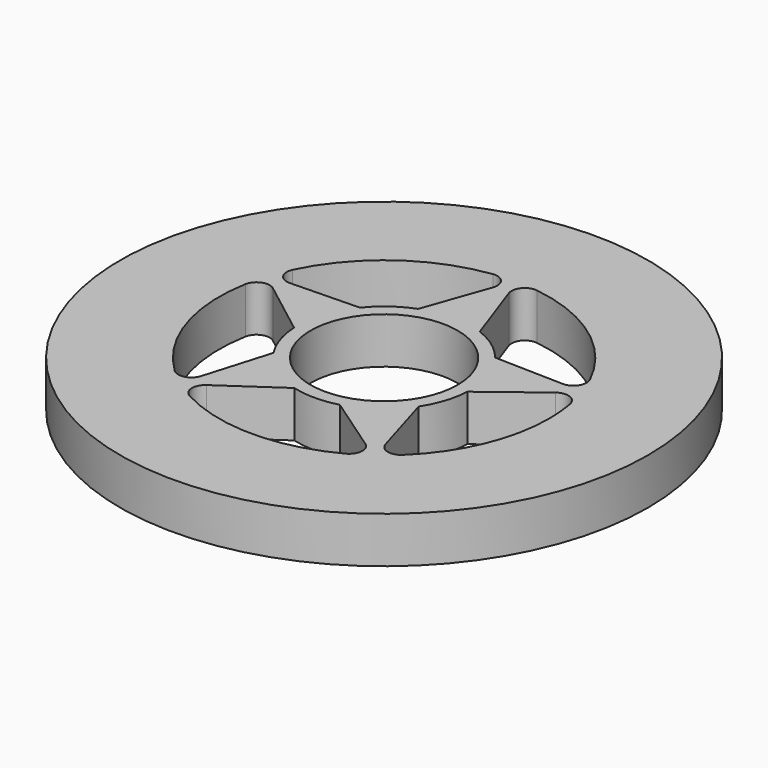
from build123d import *

# Parameters (mm, degrees)
F0_R     = 40
F0_R_2   = 35
F0_R_3   = 30
F0_R_4   = 11.15
F1_DEPTH = 7
F2_R     = 2


with BuildPart() as f1:
    # F0 (on Top) → F1 (new body)
    with BuildSketch(Plane.XY):
        Circle(F0_R)
        Circle(F0_R_2, mode=Mode.SUBTRACT)
        Circle(F0_R_2)
        Circle(F0_R_3, mode=Mode.SUBTRACT)
        Circle(F0_R_3)
        with BuildLine():
            ThreePointArc((0.1811274542, 24.9993438483), (14.6946313073, 20.2254248594), (23.7198174085, 7.8974845429))
            Line((23.7198174085, 7.8974845429), (24.2635492258, 7.883705044))
            Line((24.2635492258, 7.883705044), (23.8317603315, 7.5529596518))
            ThreePointArc((23.8317603315, 7.5529596518), (24.7062138772, 3.8213866405), (25, 0))
            ThreePointArc((25, 0), (22.3161322869, -11.2689946204), (14.8407808196, -20.1184299752))
            Line((14.8407808196, -20.1184299752), (14.9956981092, -20.6398077624))
            Line((14.9956981092, -20.6398077624), (14.5477104425, -20.3313580678))
            ThreePointArc((14.5477104425, -20.3313580678), (0, -25), (-14.5477104425, -20.3313580678))
            Line((-14.5477104425, -20.3313580678), (-14.9956981092, -20.6398077624))
            Line((-14.9956981092, -20.6398077624), (-14.8407808196, -20.1184299752))
            ThreePointArc((-14.8407808196, -20.1184299752), (-23.7764129074, -7.7254248594), (-23.8317603315, 7.5529596518))
            Line((-23.8317603315, 7.5529596518), (-24.2635492258, 7.883705044))
            Line((-24.2635492258, 7.883705044), (-23.7198174085, 7.8974845429))
            ThreePointArc((-23.7198174085, 7.8974845429), (-14.6946313073, 20.2254248594), (-0.1811274542, 24.9993438483))
            Line((-0.1811274542, 24.9993438483), (0, 25.5122054368))
            Line((0, 25.5122054368), (0.1811274542, 24.9993438483))
        make_face(mode=Mode.SUBTRACT)
        with BuildLine():
            Line((13.1343616929, -0.6411262894), (10.2490772421, 8.2388661651))
            ThreePointArc((10.2490772421, 8.2388661651), (7.7293760676, 10.638573476), (4.6684883087, 12.2934013565))
            Line((4.6684883087, 12.2934013565), (-4.6684883087, 12.2934013565))
            ThreePointArc((-4.6684883087, 12.2934013565), (-7.7293760676, 10.638573476), (-10.2490772421, 8.2388661651))
            Line((-10.2490772421, 8.2388661651), (-13.1343616929, -0.6411262894))
            ThreePointArc((-13.1343616929, -0.6411262894), (-12.5063931893, -4.063573476), (-11.0027663976, -7.2015020377))
            Line((-11.0027663976, -7.2015020377), (-3.4489936381, -12.6896391944))
            ThreePointArc((-3.4489936381, -12.6896391944), (0, -13.15), (3.4489936381, -12.6896391944))
            Line((3.4489936381, -12.6896391944), (11.0027663976, -7.2015020377))
            ThreePointArc((11.0027663976, -7.2015020377), (12.5063931893, -4.063573476), (13.1343616929, -0.6411262894))
        make_face()
        Circle(F0_R_4, mode=Mode.SUBTRACT)
        with BuildLine():
            ThreePointArc((-4.6684883087, 12.2934013565), (0, 13.15), (4.6684883087, 12.2934013565))
            Line((4.6684883087, 12.2934013565), (0.1811274542, 24.9993438483))
            ThreePointArc((0.1811274542, 24.9993438483), (0, 25), (-0.1811274542, 24.9993438483))
            Line((-0.1811274542, 24.9993438483), (-4.6684883087, 12.2934013565))
        make_face()
        with BuildLine():
            ThreePointArc((-13.1343616929, -0.6411262894), (-12.5063931893, 4.063573476), (-10.2490772421, 8.2388661651))
            Line((-10.2490772421, 8.2388661651), (-23.7198174085, 7.8974845429))
            ThreePointArc((-23.7198174085, 7.8974845429), (-23.7764129074, 7.7254248594), (-23.8317603315, 7.5529596518))
            Line((-23.8317603315, 7.5529596518), (-13.1343616929, -0.6411262894))
        make_face()
        with BuildLine():
            Line((-14.5477104425, -20.3313580678), (-3.4489936381, -12.6896391944))
            ThreePointArc((-3.4489936381, -12.6896391944), (-7.7293760676, -10.638573476), (-11.0027663976, -7.2015020377))
            Line((-11.0027663976, -7.2015020377), (-14.8407808196, -20.1184299752))
            ThreePointArc((-14.8407808196, -20.1184299752), (-14.6946313073, -20.2254248594), (-14.5477104425, -20.3313580678))
        make_face()
        with BuildLine():
            Line((14.8407808196, -20.1184299752), (11.0027663976, -7.2015020377))
            ThreePointArc((11.0027663976, -7.2015020377), (7.7293760676, -10.638573476), (3.4489936381, -12.6896391944))
            Line((3.4489936381, -12.6896391944), (14.5477104425, -20.3313580678))
            ThreePointArc((14.5477104425, -20.3313580678), (14.6946313073, -20.2254248594), (14.8407808196, -20.1184299752))
        make_face()
        with BuildLine():
            ThreePointArc((10.2490772421, 8.2388661651), (12.4035854843, 4.3673295197), (13.15, 0))
            ThreePointArc((13.15, 0), (13.1460898419, -0.3206584927), (13.1343616929, -0.6411262894))
            Line((13.1343616929, -0.6411262894), (23.8317603315, 7.5529596518))
            ThreePointArc((23.8317603315, 7.5529596518), (23.7764129074, 7.7254248594), (23.7198174085, 7.8974845429))
            Line((23.7198174085, 7.8974845429), (10.2490772421, 8.2388661651))
        make_face()
        with BuildLine():
            Line((-4.6684883087, 12.2934013565), (4.6684883087, 12.2934013565))
            ThreePointArc((4.6684883087, 12.2934013565), (0, 13.15), (-4.6684883087, 12.2934013565))
        make_face()
        with BuildLine():
            ThreePointArc((13.1343616929, -0.6411262894), (13.1460898419, -0.3206584927), (13.15, 0))
            ThreePointArc((13.15, 0), (12.4035854843, 4.3673295197), (10.2490772421, 8.2388661651))
            Line((10.2490772421, 8.2388661651), (13.1343616929, -0.6411262894))
        make_face()
        with BuildLine():
            ThreePointArc((3.4489936381, -12.6896391944), (7.7293760676, -10.638573476), (11.0027663976, -7.2015020377))
            Line((11.0027663976, -7.2015020377), (3.4489936381, -12.6896391944))
        make_face()
        with BuildLine():
            ThreePointArc((-11.0027663976, -7.2015020377), (-7.7293760676, -10.638573476), (-3.4489936381, -12.6896391944))
            Line((-3.4489936381, -12.6896391944), (-11.0027663976, -7.2015020377))
        make_face()
        with BuildLine():
            Line((-13.1343616929, -0.6411262894), (-10.2490772421, 8.2388661651))
            ThreePointArc((-10.2490772421, 8.2388661651), (-12.5063931893, 4.063573476), (-13.1343616929, -0.6411262894))
        make_face()
        with BuildLine():
            ThreePointArc((-23.8317603315, 7.5529596518), (-23.7764129074, 7.7254248594), (-23.7198174085, 7.8974845429))
            Line((-23.7198174085, 7.8974845429), (-24.2635492258, 7.883705044))
            Line((-24.2635492258, 7.883705044), (-23.8317603315, 7.5529596518))
        make_face()
        with BuildLine():
            Line((-14.9956981092, -20.6398077624), (-14.5477104425, -20.3313580678))
            ThreePointArc((-14.5477104425, -20.3313580678), (-14.6946313073, -20.2254248594), (-14.8407808196, -20.1184299752))
            Line((-14.8407808196, -20.1184299752), (-14.9956981092, -20.6398077624))
        make_face()
        with BuildLine():
            Line((14.9956981092, -20.6398077624), (14.8407808196, -20.1184299752))
            ThreePointArc((14.8407808196, -20.1184299752), (14.6946313073, -20.2254248594), (14.5477104425, -20.3313580678))
            Line((14.5477104425, -20.3313580678), (14.9956981092, -20.6398077624))
        make_face()
        with BuildLine():
            Line((24.2635492258, 7.883705044), (23.7198174085, 7.8974845429))
            ThreePointArc((23.7198174085, 7.8974845429), (23.7764129074, 7.7254248594), (23.8317603315, 7.5529596518))
            Line((23.8317603315, 7.5529596518), (24.2635492258, 7.883705044))
        make_face()
        with BuildLine():
            ThreePointArc((-0.1811274542, 24.9993438483), (0, 25), (0.1811274542, 24.9993438483))
            Line((0.1811274542, 24.9993438483), (0, 25.5122054368))
            Line((0, 25.5122054368), (-0.1811274542, 24.9993438483))
        make_face()
    extrude(amount=F1_DEPTH)

    # F2
    f2_edges = [f1.edges().sort_by_distance(p)[0] for p in [
        (0.181127, 24.999344, 3.5),
        (-0.181127, 24.999344, 3.5),
        (23.719817, 7.897485, 3.5),
        (23.83176, 7.55296, 3.5),
        (14.840781, -20.11843, 3.5),
        (14.54771, -20.331358, 3.5),
        (-14.54771, -20.331358, 3.5),
        (-14.840781, -20.11843, 3.5),
        (-23.83176, 7.55296, 3.5),
        (-23.719817, 7.897485, 3.5),
    ]]
    fillet(f2_edges, radius=F2_R)


solid = f1.part
